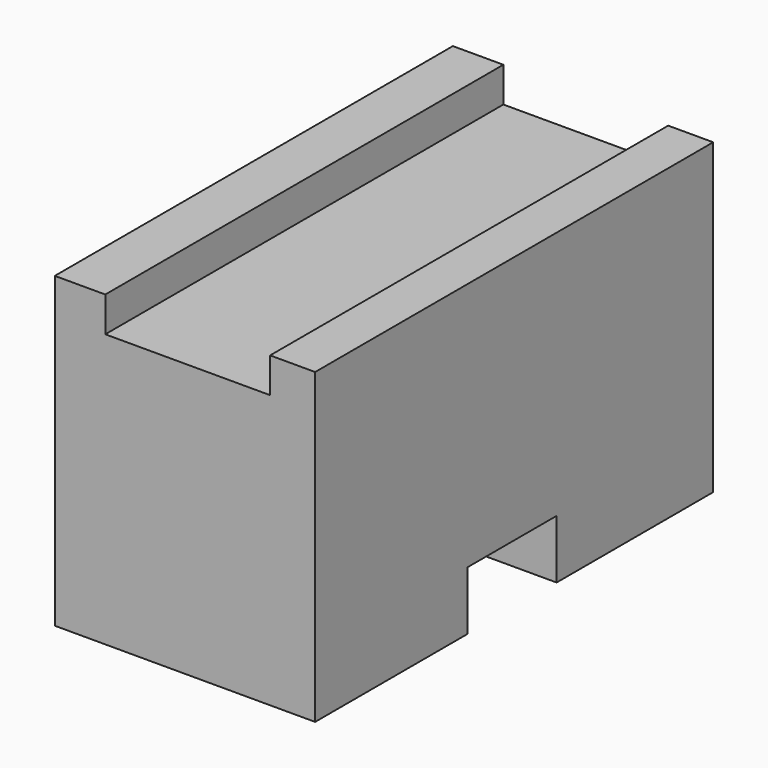
from build123d import *

# Parameters (mm, degrees)
F0_W     = 48.548784
F0_H     = 30.054009
F1_DEPTH = 25.4
F2_W     = 16.082412
F2_H     = 3.417515
F3_DEPTH = 50.8
F4_W     = 10.855629
F4_H     = 5.729359
F5_DEPTH = 50.8


with BuildPart() as f1:
    # F0 (on Right) → F1 (new body)
    with BuildSketch(Plane.YZ):
        with Locations((24.274392, 15.027004)):
            Rectangle(F0_W, F0_H)
    extrude(amount=F1_DEPTH)

    # F2 (on face) → F3 (cut)
    with BuildSketch(Plane.XZ):
        with Locations((12.966445, 28.345251)):
            Rectangle(F2_W, F2_H)
    extrude(amount=-F3_DEPTH, mode=Mode.SUBTRACT)

    # F4 (on face) → F5 (cut)
    with BuildSketch(Plane(origin=(0, 0, 0), x_dir=(0, -1, 0), z_dir=(-1, 0, 0))):
        with Locations((-24.023103, 2.864679)):
            Rectangle(F4_W, F4_H)
    extrude(amount=-F5_DEPTH, mode=Mode.SUBTRACT)


solid = f1.part
